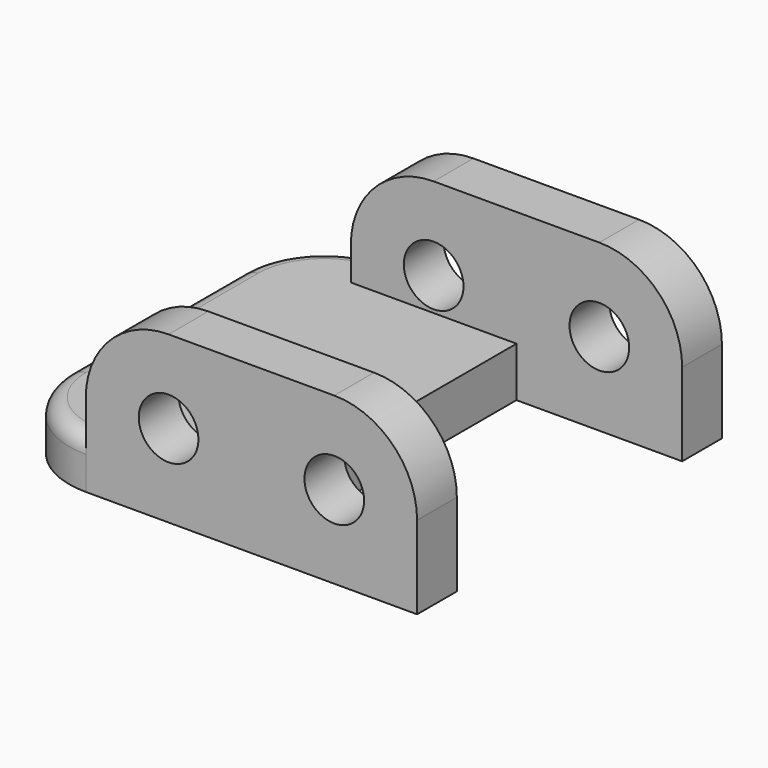
from build123d import *

# Parameters (mm, degrees)
F1_DEPTH = 3
F2_W     = 20
F2_H     = 3
F3_DEPTH = 7
F4_R     = 5
F5_R     = 5
F6_R     = 1
F7_R     = 1.8
F8_DEPTH = 24


with BuildPart() as f1:
    # F0 (on Top) → F1 (new body)
    with BuildSketch(Plane.XY):
        Polygon((-7.8999784394, 16.9947269248), (-7.8999784394, -6.0052730752), (17.1000215606, -6.0052730752), (17.1000215606, -3.0052730752), (7.1000215606, -3.0052730752), (7.1000215606, 13.9947269248), (17.1000215606, 13.9947269248), (17.1000215606, 16.9947269248), align=None)
    extrude(amount=F1_DEPTH)

    # F2 (on face) → F3 (join)
    with BuildSketch(Plane.XY.offset(3)):
        with Locations((7.1000215606, 15.4947269248)):
            Rectangle(F2_W, F2_H)
        with Locations((7.1000215606, -4.5052730752)):
            Rectangle(F2_W, F2_H)
    extrude(amount=F3_DEPTH)

    # F4
    f4_edges = [f1.edges().sort_by_distance(p)[0] for p in [
        (-7.899978, 16.994727, 1.5),
        (-7.899978, -6.005273, 1.5),
        (-2.899978, -4.505273, 10),
        (-2.899978, 15.494727, 10),
    ]]
    fillet(f4_edges, radius=F4_R)

    # F5
    f5_edges = [f1.edges().sort_by_distance(p)[0] for p in [
        (17.100022, 15.494727, 10),
        (17.100022, -4.505273, 10),
    ]]
    fillet(f5_edges, radius=F5_R)

    # F6
    f6_edges = [f1.edges().sort_by_distance(p)[0] for p in [
        (-6.435512, 15.530261, 3),
        (-7.899978, 5.494727, 3),
        (-6.435512, -4.540807, 3),
    ]]
    fillet(f6_edges, radius=F6_R)

    # F7 (on face) → F8 (cut)
    with BuildSketch(Plane.XZ.offset(6.0052730752)):
        with Locations((12.1000215606, 5)):
            Circle(F7_R)
        with Locations((2.1000215606, 5)):
            Circle(F7_R)
    extrude(amount=-F8_DEPTH, mode=Mode.SUBTRACT)


solid = f1.part
